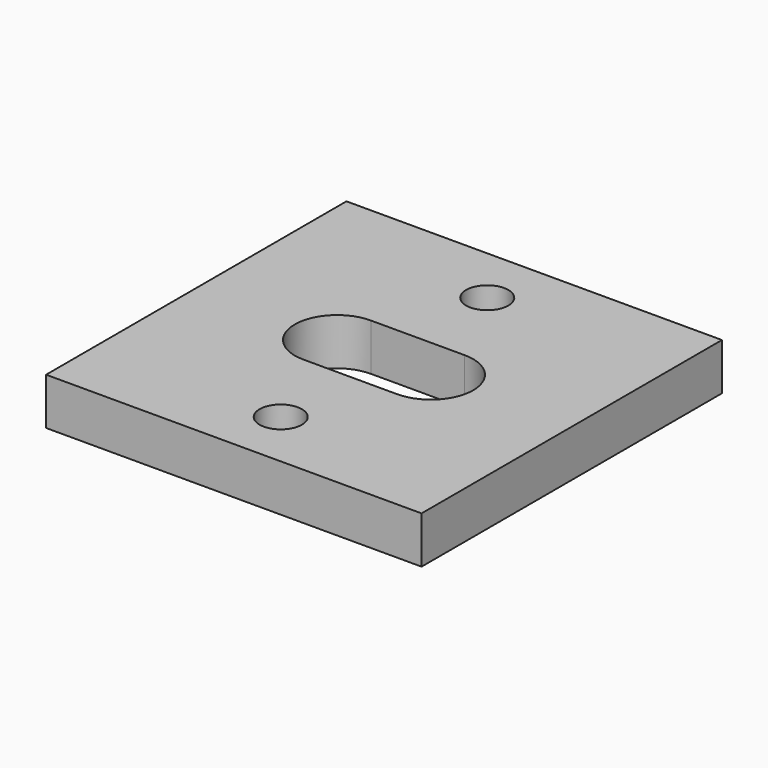
from build123d import *

# Parameters (mm, degrees)
SKETCH_W  = 40
SKETCH_H  = 40
SKETCH_R  = 2.25
PAD_DEPTH = 5


with BuildPart() as part:
    # Sketch → Pad (new body)
    with BuildSketch(Plane.XY):
        Rectangle(SKETCH_W, SKETCH_H)
        with Locations((0, 13.75)):
            Circle(SKETCH_R, mode=Mode.SUBTRACT)
        with Locations((0, -13.75)):
            Circle(SKETCH_R, mode=Mode.SUBTRACT)
        with BuildLine():
            ThreePointArc((-4.999983, 4.5), (-9.499983, 9e-06), (-5, -4.5))
            Line((-5, -4.5), (5, -4.5))
            ThreePointArc((5, -4.5), (9.499983, 9e-06), (4.999983, 4.5))
            Line((-4.999983, 4.5), (4.999983, 4.5))
        make_face(mode=Mode.SUBTRACT)
    extrude(amount=PAD_DEPTH)


solid = part.part
